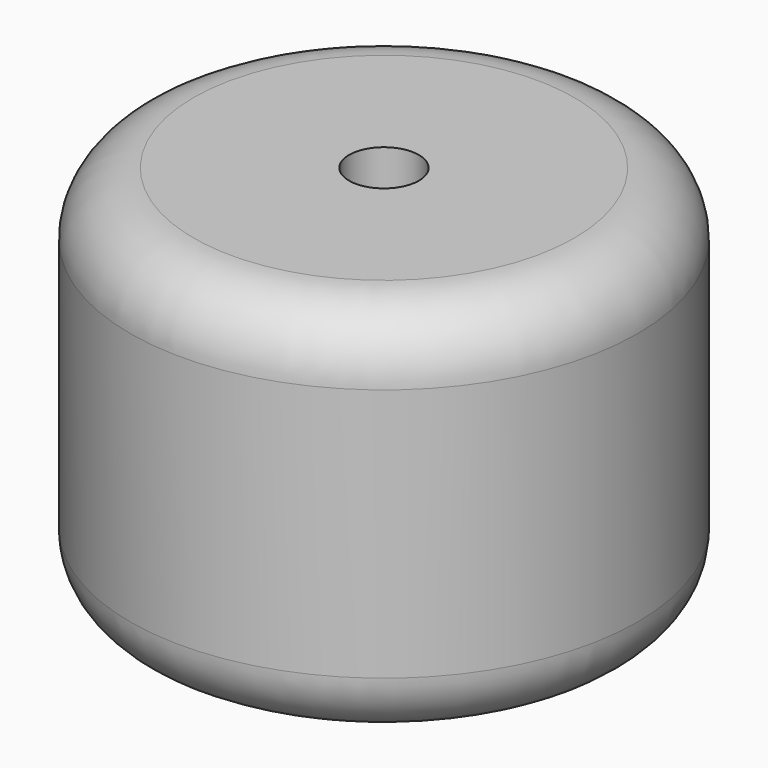
from build123d import *

# Parameters (mm, degrees)
F0_R     = 10.16
F1_DEPTH = 15.24
F2_R     = 2.54
F3_R     = 1.397
F4_DEPTH = 10.16


with BuildPart() as f1:
    # F0 (on Top) → F1 (new body)
    with BuildSketch(Plane.XY):
        Circle(F0_R)
    extrude(amount=F1_DEPTH)

    # F2
    f2_edges = [f1.edges().sort_by_distance(p)[0] for p in [
        (-10.16, 0, 0),
        (-10.16, 0, 15.24),
    ]]
    fillet(f2_edges, radius=F2_R)

    # F3 (on face) → F4 (cut)
    with BuildSketch(Plane.XY.offset(15.24)):
        Circle(F3_R)
    extrude(amount=-F4_DEPTH, mode=Mode.SUBTRACT)


solid = f1.part
